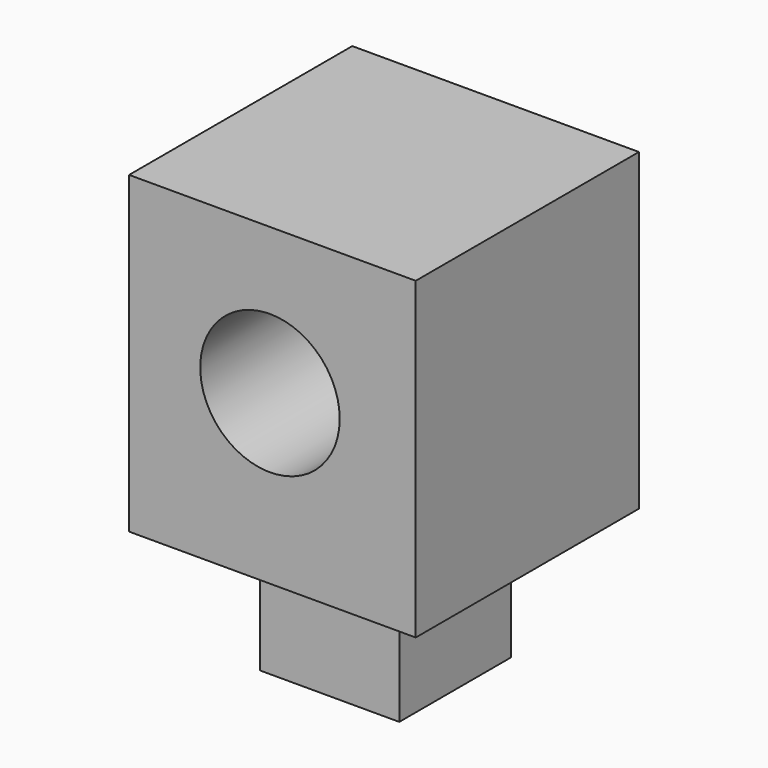
from build123d import *

# Parameters (mm, degrees)
F0_W     = 52.19904
F0_H     = 57.19075
F1_DEPTH = 50.8
F3_D     = 25.4
F4_W     = 25.4
F4_H     = 25.4
F5_DEPTH = 25.4


with BuildPart() as f1:
    # F0 (on Front) → F1 (new body)
    with BuildSketch(Plane.XZ):
        with Locations((-26.09952, 28.595375)):
            Rectangle(F0_W, F0_H)
    extrude(amount=F1_DEPTH)

    # F3 (through all)
    with Locations(Plane(origin=(0, 0, 0), x_dir=(-1, 0, 0), z_dir=(0, 1, 0))):
        with Locations((26.545139, 30.546911)):
            Hole(F3_D / 2)

    # F4 (on face) → F5 (join)
    with BuildSketch(Plane(origin=(0, 0, 0), x_dir=(1, 0, 0), z_dir=(0, 0, -1))):
        with Locations((-28.771738, 21.757494)):
            Rectangle(F4_W, F4_H)
    extrude(amount=F5_DEPTH)


solid = f1.part
